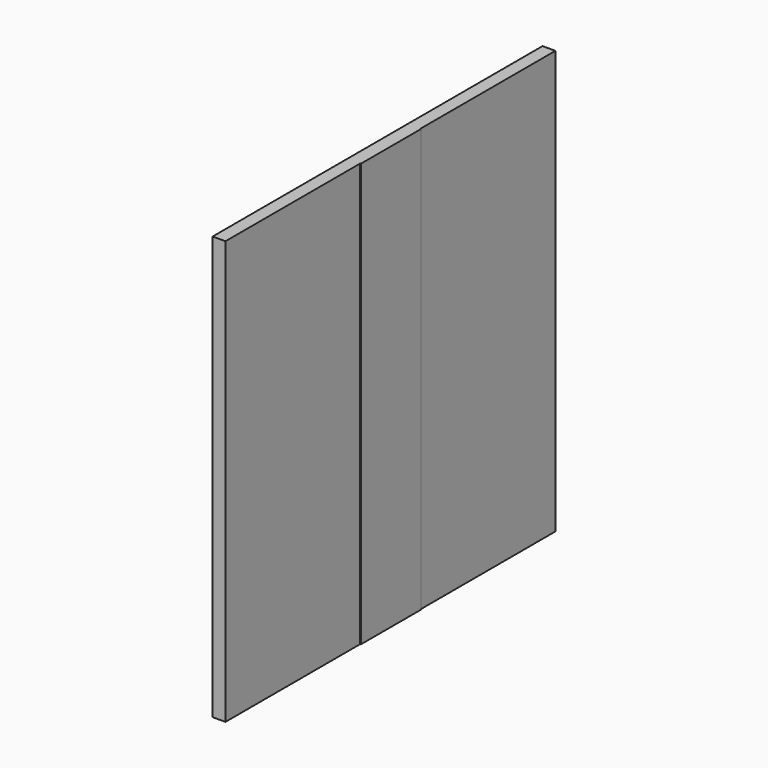
from build123d import *

# Parameters (mm, degrees)
F0_W     = 971.55
F0_H     = 996.95
F1_DEPTH = 30.226
F2_W     = 177.8
F2_H     = 996.95
F3_DEPTH = 1.524


with BuildPart() as f1:
    # F0 (on Right) → F1 (new body)
    with BuildSketch(Plane.YZ):
        Rectangle(F0_W, F0_H)
    extrude(amount=F1_DEPTH)

    # F2 (on face) → F3 (join)
    with BuildSketch(Plane.YZ.offset(30.226)):
        Rectangle(F2_W, F2_H)
    extrude(amount=F3_DEPTH)


solid = f1.part
